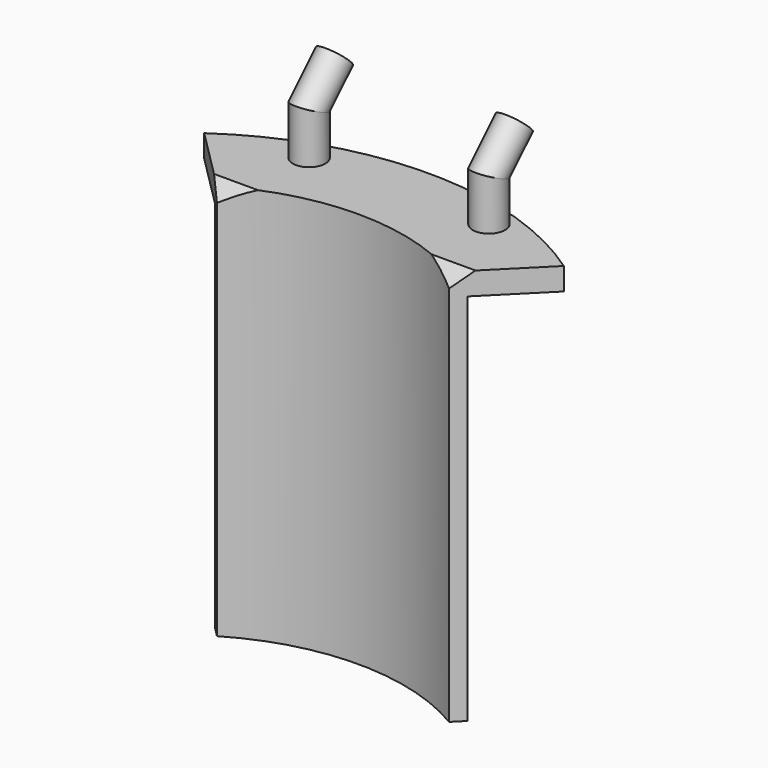
from build123d import *

# Parameters (mm, degrees)
F0_W      = 31.75
F0_H      = 9.525
F1_DEPTH  = 3.175
F4_R      = 2.286
F8_R      = 2.286
F11_DEPTH = 3.175
F13_DEPTH = 52.79898
F15_DEPTH = 25.4
F17_DEPTH = 2


with BuildPart() as f1:
    # F0 (on Top) → F1 (new body)
    with BuildSketch(Plane.XY):
        with Locations((15.875, 4.7625)):
            Rectangle(F0_W, F0_H)
    extrude(amount=F1_DEPTH)

    # F5: sweep along a path in F3
    with BuildLine(Plane.YZ.offset(28.575)) as f5_path:
        Line((7.1374, 3.175), (7.1374, 9.525))
        Line((7.1374, 9.525), (11.6275280605, 14.0151280605))
    # F4 (on face) → F5 (sweep)
    with BuildSketch(Plane.XY.offset(3.175)):
        with Locations((28.575, 7.1374)):
            Circle(F4_R)
    sweep(path=f5_path.line, transition=Transition.RIGHT)

    # F9: sweep along a path in F7
    with BuildLine(Plane.YZ.offset(3.175)) as f9_path:
        Line((7.1374, 3.175), (7.1374, 9.525))
        Line((7.1374, 9.525), (11.6275280605, 14.0151280605))
    # F8 (on face) → F9 (sweep)
    with BuildSketch(Plane.XY.offset(3.175)):
        with Locations((3.175, 7.1374)):
            Circle(F8_R)
    sweep(path=f9_path.line, transition=Transition.RIGHT)

    # F10 (on face) → F11 (join, through all)
    with BuildSketch(Plane.XY.offset(3.175)):
        with BuildLine():
            Line((32.2702801376, -4.5202594941), (41.275, 4.4844603683))
            ThreePointArc((41.275, 4.4844603683), (15.875, 12.4564875628), (-9.525, 4.4844603683))
            Line((-9.525, 4.4844603683), (-0.5202801376, -4.5202594941))
            ThreePointArc((-0.5202801376, -4.5202594941), (15.875, 0), (32.2702801376, -4.5202594941))
        make_face()
    extrude(amount=-F11_DEPTH)

    # F12 (on face) → F13 (join)
    with BuildSketch(Plane(origin=(0, 0, 0), x_dir=(1, 0, 0), z_dir=(0, 0, -1))):
        with BuildLine():
            Line((-0.5202801376, 4.5202594941), (-1.9761626677, 3.064376964))
            ThreePointArc((-1.9761626677, 3.064376964), (15.875, -2), (33.7261626677, 3.064376964))
            Line((33.7261626677, 3.064376964), (32.2702801376, 4.5202594941))
            ThreePointArc((32.2702801376, 4.5202594941), (15.875, 0), (-0.5202801376, 4.5202594941))
        make_face()
    extrude(amount=F13_DEPTH)

    # F14 (on face) → F15 (cut)
    with BuildSketch(Plane(origin=(0, 12.8213280605, 12.8213280605), x_dir=(1, 0, 0), z_dir=(0, 0.7071067812, 0.7071067812))):
        Polygon((3.175, -3.9742881508), (-2.5950474281, -3.9742881508), (-2.5950474281, -10.2548293379), (34.3450474281, -10.2548293379), (34.3450474281, -3.9742881508), align=None)
    extrude(amount=-F15_DEPTH, mode=Mode.SUBTRACT)

    # F16 (on face) → F17 (join)
    with BuildSketch(Plane(origin=(0, 0, -52.79898), x_dir=(1, 0, 0), z_dir=(0, 0, -1))):
        with BuildLine():
            ThreePointArc((19.0465359344, -1.8517272227), (15.875, -2), (12.7034640656, -1.8517272227))
            ThreePointArc((12.7034640656, -1.8517272227), (15.875, -5.175), (19.0465359344, -1.8517272227))
        make_face()
    extrude(amount=-F17_DEPTH)


solid = f1.part
